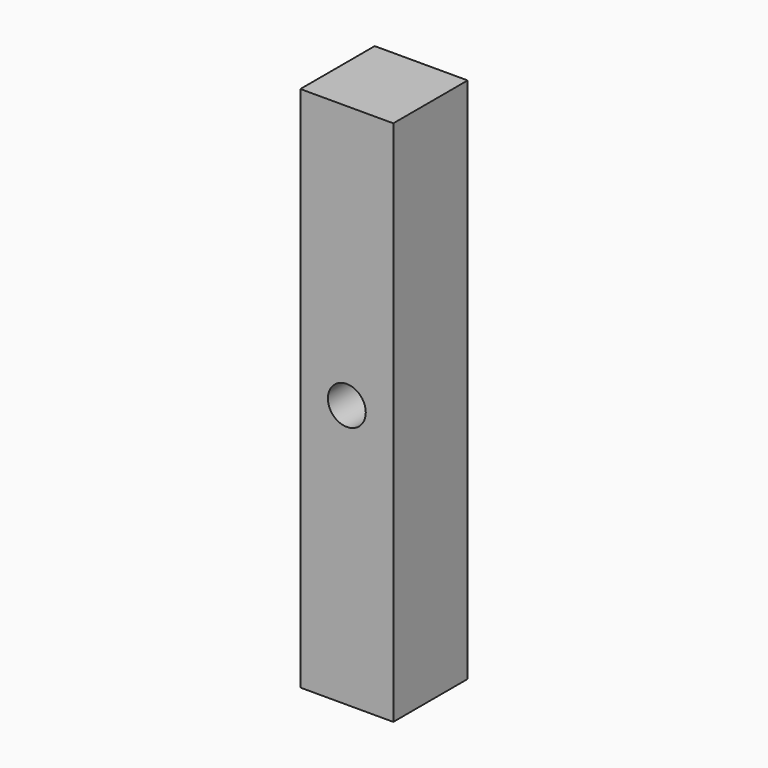
from build123d import *

# Parameters (mm, degrees)
F0_W     = 22.3959572613
F0_H     = 22.3959572613
F1_DEPTH = 127
F2_R     = 4.5645593484
F3_DEPTH = 22.3969572613


with BuildPart() as f1:
    # F0 (on Top) → F1 (new body)
    with BuildSketch(Plane.XY):
        with Locations((-20.9427904338, 53.5964425653)):
            Rectangle(F0_W, F0_H)
    extrude(amount=-F1_DEPTH)

    # F2 (on face) → F3 (cut, through all)
    with BuildSketch(Plane.XZ.offset(-42.3984639347)):
        with Locations((-20.9427904338, -63.5)):
            Circle(F2_R)
    extrude(amount=-F3_DEPTH, mode=Mode.SUBTRACT)


solid = f1.part
